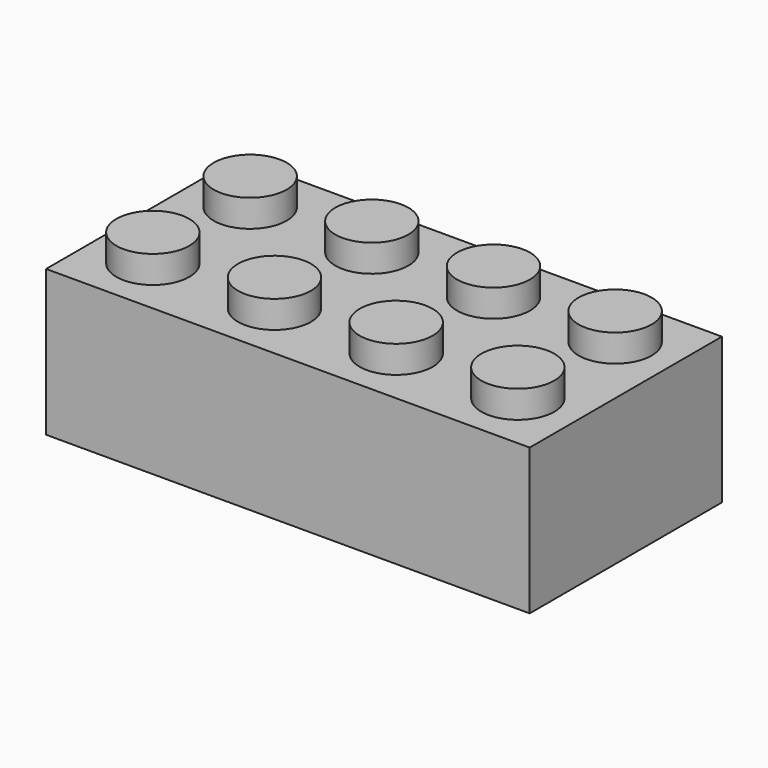
from build123d import *

# Parameters (mm, degrees)
F0_W     = 807.72
F0_H     = 401.32
F1_DEPTH = 243.84
F2_R     = 60.96
F3_DEPTH = 45.72
F4_W     = 746.76
F4_H     = 340.36
F4_R     = 82.55
F4_R_2   = 60.96
F5_DEPTH = 213.36


with BuildPart() as f1:
    # F0 (on Top) → F1 (new body)
    with BuildSketch(Plane.XY):
        with Locations((-9.350765, -16.714708)):
            Rectangle(F0_W, F0_H)
    extrude(amount=F1_DEPTH)

    # F2 (on face) → F3 (join)
    with BuildSketch(Plane.XY.offset(243.84)):
        with Locations((-314.150765, 84.885292)):
            Circle(F2_R)
        with Locations((-314.150765, -118.314708)):
            Circle(F2_R)
        with Locations((-110.950765, 84.885292)):
            Circle(F2_R)
        with Locations((92.249235, 84.885292)):
            Circle(F2_R)
        with Locations((92.249235, -118.314708)):
            Circle(F2_R)
        with Locations((-110.950765, -118.314708)):
            Circle(F2_R)
        with Locations((295.449235, 84.885292)):
            Circle(F2_R)
        with Locations((295.449235, -118.314708)):
            Circle(F2_R)
    extrude(amount=F3_DEPTH)

    # F4 (on face) → F5 (cut)
    with BuildSketch(Plane(origin=(0, 0, 0), x_dir=(1, 0, 0), z_dir=(0, 0, -1))):
        with Locations((-9.350765, 16.714708)):
            Rectangle(F4_W, F4_H)
        with Locations((-212.550765, 16.714708)):
            Circle(F4_R, mode=Mode.SUBTRACT)
        with Locations((-9.350765, 16.714708)):
            Circle(F4_R, mode=Mode.SUBTRACT)
        with Locations((193.849235, 16.714708)):
            Circle(F4_R, mode=Mode.SUBTRACT)
        with Locations((-212.550765, 16.714708)):
            Circle(F4_R_2)
        with Locations((-9.350765, 16.714708)):
            Circle(F4_R_2)
        with Locations((193.849235, 16.714708)):
            Circle(F4_R_2)
    extrude(amount=-F5_DEPTH, mode=Mode.SUBTRACT)


solid = f1.part
